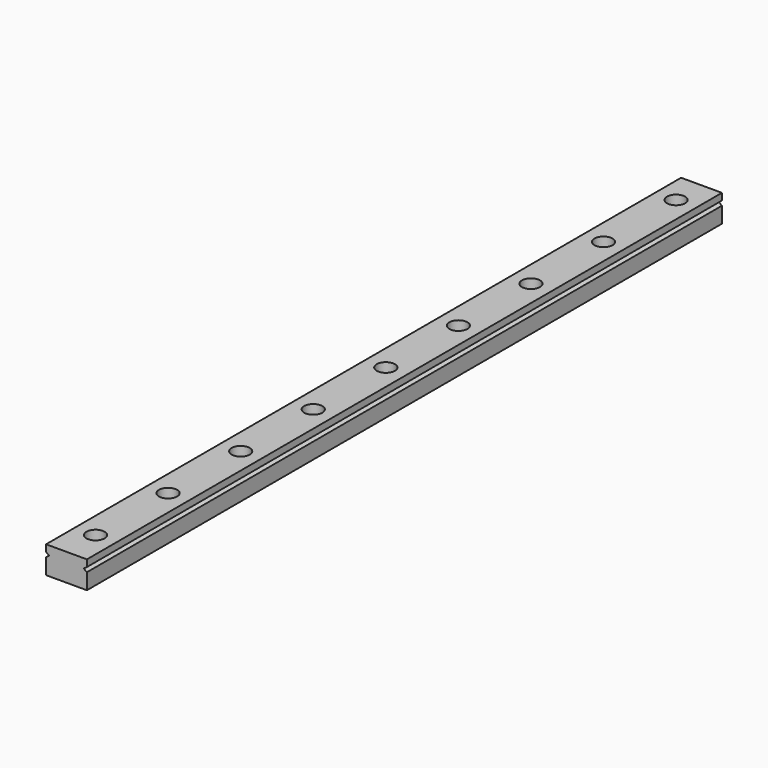
from build123d import *

# Parameters (mm, degrees)
F1_DEPTH = 175
F2_R     = 2
F3_DEPTH = 6.001


with BuildPart() as f1:
    # F0 (on Front) → F1 (new body)
    with BuildSketch(Plane.XZ):
        Polygon((4.5, 6), (-4.5, 6), (-4.5, 4.5), (-3.8, 4), (-4.5, 3.5), (-4.5, 0), (4.5, 0), (4.5, 3.5), (3.8, 4), (4.5, 4.5), align=None)
    extrude(amount=F1_DEPTH)

    # F2 (on face) → F3 (cut, through all)
    with BuildSketch(Plane.XY.offset(6)):
        with Locations((0, -7)):
            Circle(F2_R)
        with Locations((0, -27)):
            Circle(F2_R)
        with Locations((0, -47)):
            Circle(F2_R)
        with Locations((0, -67)):
            Circle(F2_R)
        with Locations((0, -87)):
            Circle(F2_R)
        with Locations((0, -107)):
            Circle(F2_R)
        with Locations((0, -127)):
            Circle(F2_R)
        with Locations((0, -147)):
            Circle(F2_R)
        with Locations((0, -167)):
            Circle(F2_R)
    extrude(amount=-F3_DEPTH, mode=Mode.SUBTRACT)


solid = f1.part
